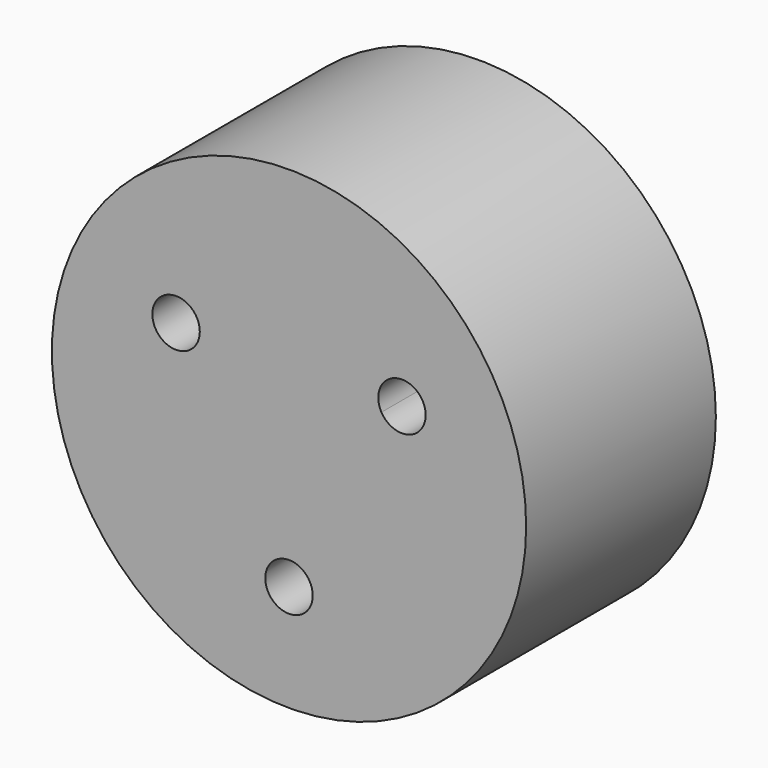
from build123d import *

# Parameters (mm, degrees)
F0_R     = 50
F1_DEPTH = 25
F2_R     = 5
F3_DEPTH = 74


with BuildPart() as f1:
    # F0 (on Front) → F1 (new body, symmetric)
    with BuildSketch(Plane.XZ):
        Circle(F0_R)
    extrude(amount=F1_DEPTH, both=True)

    # F2 (on face) → F3 (cut)
    with BuildSketch(Plane.XZ.offset(25)):
        with BuildLine():
            ThreePointArc((-19.485572, 11.25), (-18.986069, 12.455905), (-18.815699, 13.75))
            ThreePointArc((-18.815699, 13.75), (-22.521603, 18.579629), (-28.145826, 16.25))
            Line((-28.145826, 16.25), (-19.485572, 11.25))
        make_face()
        with BuildLine():
            ThreePointArc((28.145826, 16.25), (21.315699, 18.080127), (19.485572, 11.25))
            Line((19.485572, 11.25), (28.145826, 16.25))
        make_face()
        with BuildLine():
            Line((28.145826, 16.25), (19.485572, 11.25))
            ThreePointArc((19.485572, 11.25), (25.109794, 8.920371), (28.815699, 13.75))
            ThreePointArc((28.815699, 13.75), (28.645328, 15.044095), (28.145826, 16.25))
        make_face()
        with BuildLine():
            Line((-19.485572, 11.25), (-28.145826, 16.25))
            ThreePointArc((-28.145826, 16.25), (-26.315699, 9.419873), (-19.485572, 11.25))
        make_face()
        with Locations((0, -27.5)):
            Circle(F2_R)
    extrude(amount=-F3_DEPTH, mode=Mode.SUBTRACT)


solid = f1.part
